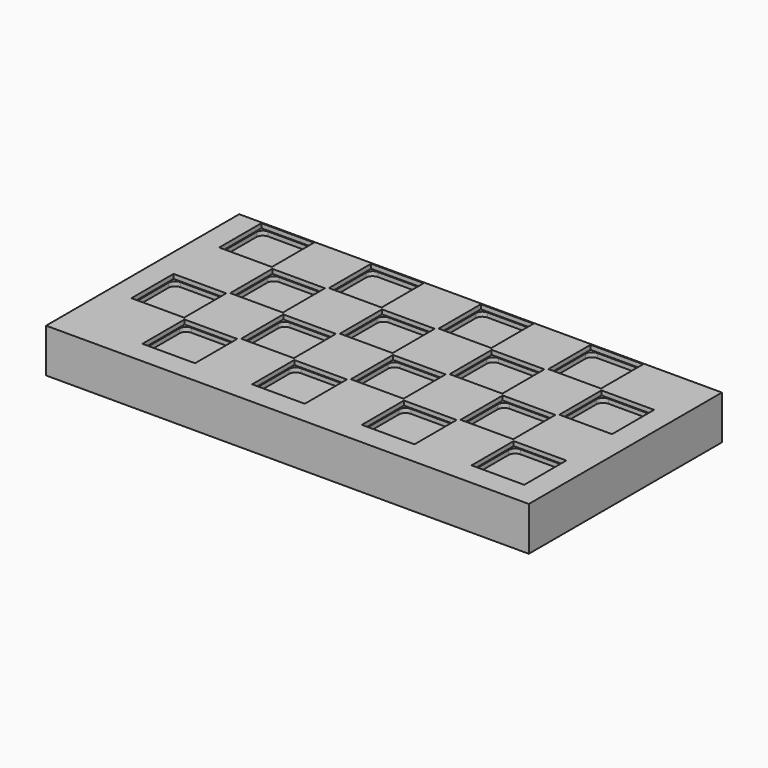
from build123d import *

# Parameters (mm, degrees)
F0_W     = 279.4
F0_H     = 25.4
F1_DEPTH = 139.7
F3_DEPTH = 5.08
F5_DEPTH = 19.05
F6_W     = 30.48
F6_H     = 30.48
F7_DEPTH = 2.54


with BuildPart() as f1:
    # F0 (on Front) → F1 (new body)
    with BuildSketch(Plane.XZ):
        Rectangle(F0_W, F0_H)
    extrude(amount=F1_DEPTH)

    # F2 (on face) → F3 (cut)
    with BuildSketch(Plane.XY.offset(12.7)):
        with BuildLine():
            Line((-100.33, -1.27), (-121.92, -1.27))
            ThreePointArc((-121.92, -1.27), (-124.614077, -2.385923), (-125.73, -5.08))
            Line((-125.73, -5.08), (-125.73, -26.67))
            ThreePointArc((-125.73, -26.67), (-124.614077, -29.364077), (-121.92, -30.48))
            Line((-121.92, -30.48), (-100.33, -30.48))
            ThreePointArc((-100.33, -30.48), (-97.635923, -29.364077), (-96.52, -26.67))
            Line((-96.52, -26.67), (-96.52, -5.08))
            ThreePointArc((-96.52, -5.08), (-97.635923, -2.385923), (-100.33, -1.27))
        make_face()
        with BuildLine():
            ThreePointArc((-121.92, -64.77), (-124.614077, -65.885923), (-125.73, -68.58))
            Line((-125.73, -68.58), (-125.73, -90.17))
            ThreePointArc((-125.73, -90.17), (-124.614077, -92.864077), (-121.92, -93.98))
            Line((-121.92, -93.98), (-100.33, -93.98))
            ThreePointArc((-100.33, -93.98), (-97.635923, -92.864077), (-96.52, -90.17))
            Line((-96.52, -90.17), (-96.52, -68.58))
            ThreePointArc((-96.52, -68.58), (-97.635923, -65.885923), (-100.33, -64.77))
            Line((-100.33, -64.77), (-121.92, -64.77))
        make_face()
        with BuildLine():
            ThreePointArc((-58.42, -1.27), (-61.114077, -2.385923), (-62.23, -5.08))
            Line((-62.23, -5.08), (-62.23, -26.67))
            ThreePointArc((-62.23, -26.67), (-61.114077, -29.364077), (-58.42, -30.48))
            Line((-58.42, -30.48), (-36.83, -30.48))
            ThreePointArc((-36.83, -30.48), (-34.135923, -29.364077), (-33.02, -26.67))
            Line((-33.02, -26.67), (-33.02, -5.08))
            ThreePointArc((-33.02, -5.08), (-34.135923, -2.385923), (-36.83, -1.27))
            Line((-36.83, -1.27), (-58.42, -1.27))
        make_face()
        with BuildLine():
            ThreePointArc((-90.17, -33.02), (-92.864077, -34.135923), (-93.98, -36.83))
            Line((-93.98, -36.83), (-93.98, -58.42))
            ThreePointArc((-93.98, -58.42), (-92.864077, -61.114077), (-90.17, -62.23))
            Line((-90.17, -62.23), (-68.58, -62.23))
            ThreePointArc((-68.58, -62.23), (-65.885923, -61.114077), (-64.77, -58.42))
            Line((-64.77, -58.42), (-64.77, -36.83))
            ThreePointArc((-64.77, -36.83), (-65.885923, -34.135923), (-68.58, -33.02))
            Line((-68.58, -33.02), (-90.17, -33.02))
        make_face()
        with BuildLine():
            ThreePointArc((-58.42, -64.77), (-61.114077, -65.885923), (-62.23, -68.58))
            Line((-62.23, -68.58), (-62.23, -90.17))
            ThreePointArc((-62.23, -90.17), (-61.114077, -92.864077), (-58.42, -93.98))
            Line((-58.42, -93.98), (-36.83, -93.98))
            ThreePointArc((-36.83, -93.98), (-34.135923, -92.864077), (-33.02, -90.17))
            Line((-33.02, -90.17), (-33.02, -68.58))
            ThreePointArc((-33.02, -68.58), (-34.135923, -65.885923), (-36.83, -64.77))
            Line((-36.83, -64.77), (-58.42, -64.77))
        make_face()
        with BuildLine():
            ThreePointArc((-90.17, -96.52), (-92.864077, -97.635923), (-93.98, -100.33))
            Line((-93.98, -100.33), (-93.98, -121.92))
            ThreePointArc((-93.98, -121.92), (-92.864077, -124.614077), (-90.17, -125.73))
            Line((-90.17, -125.73), (-68.58, -125.73))
            ThreePointArc((-68.58, -125.73), (-65.885923, -124.614077), (-64.77, -121.92))
            Line((-64.77, -121.92), (-64.77, -100.33))
            ThreePointArc((-64.77, -100.33), (-65.885923, -97.635923), (-68.58, -96.52))
            Line((-68.58, -96.52), (-90.17, -96.52))
        make_face()
        with BuildLine():
            ThreePointArc((-26.67, -96.52), (-29.364077, -97.635923), (-30.48, -100.33))
            Line((-30.48, -100.33), (-30.48, -121.92))
            ThreePointArc((-30.48, -121.92), (-29.364077, -124.614077), (-26.67, -125.73))
            Line((-26.67, -125.73), (-5.08, -125.73))
            ThreePointArc((-5.08, -125.73), (-2.385923, -124.614077), (-1.27, -121.92))
            Line((-1.27, -121.92), (-1.27, -100.33))
            ThreePointArc((-1.27, -100.33), (-2.385923, -97.635923), (-5.08, -96.52))
            Line((-5.08, -96.52), (-26.67, -96.52))
        make_face()
        with BuildLine():
            ThreePointArc((5.08, -64.77), (2.385923, -65.885923), (1.27, -68.58))
            Line((1.27, -68.58), (1.27, -90.17))
            ThreePointArc((1.27, -90.17), (2.385923, -92.864077), (5.08, -93.98))
            Line((5.08, -93.98), (26.67, -93.98))
            ThreePointArc((26.67, -93.98), (29.364077, -92.864077), (30.48, -90.17))
            Line((30.48, -90.17), (30.48, -68.58))
            ThreePointArc((30.48, -68.58), (29.364077, -65.885923), (26.67, -64.77))
            Line((26.67, -64.77), (5.08, -64.77))
        make_face()
        with BuildLine():
            ThreePointArc((-26.67, -33.02), (-29.364077, -34.135923), (-30.48, -36.83))
            Line((-30.48, -36.83), (-30.48, -58.42))
            ThreePointArc((-30.48, -58.42), (-29.364077, -61.114077), (-26.67, -62.23))
            Line((-26.67, -62.23), (-5.08, -62.23))
            ThreePointArc((-5.08, -62.23), (-2.385923, -61.114077), (-1.27, -58.42))
            Line((-1.27, -58.42), (-1.27, -36.83))
            ThreePointArc((-1.27, -36.83), (-2.385923, -34.135923), (-5.08, -33.02))
            Line((-5.08, -33.02), (-26.67, -33.02))
        make_face()
        with BuildLine():
            ThreePointArc((5.08, -1.27), (2.385923, -2.385923), (1.27, -5.08))
            Line((1.27, -5.08), (1.27, -26.67))
            ThreePointArc((1.27, -26.67), (2.385923, -29.364077), (5.08, -30.48))
            Line((5.08, -30.48), (26.67, -30.48))
            ThreePointArc((26.67, -30.48), (29.364077, -29.364077), (30.48, -26.67))
            Line((30.48, -26.67), (30.48, -5.08))
            ThreePointArc((30.48, -5.08), (29.364077, -2.385923), (26.67, -1.27))
            Line((26.67, -1.27), (5.08, -1.27))
        make_face()
        with BuildLine():
            ThreePointArc((36.83, -33.02), (34.135923, -34.135923), (33.02, -36.83))
            Line((33.02, -36.83), (33.02, -58.42))
            ThreePointArc((33.02, -58.42), (34.135923, -61.114077), (36.83, -62.23))
            Line((36.83, -62.23), (58.42, -62.23))
            ThreePointArc((58.42, -62.23), (61.114077, -61.114077), (62.23, -58.42))
            Line((62.23, -58.42), (62.23, -36.83))
            ThreePointArc((62.23, -36.83), (61.114077, -34.135923), (58.42, -33.02))
            Line((58.42, -33.02), (36.83, -33.02))
        make_face()
        with BuildLine():
            ThreePointArc((68.58, -64.77), (65.885923, -65.885923), (64.77, -68.58))
            Line((64.77, -68.58), (64.77, -90.17))
            ThreePointArc((64.77, -90.17), (65.885923, -92.864077), (68.58, -93.98))
            Line((68.58, -93.98), (90.17, -93.98))
            ThreePointArc((90.17, -93.98), (92.864077, -92.864077), (93.98, -90.17))
            Line((93.98, -90.17), (93.98, -68.58))
            ThreePointArc((93.98, -68.58), (92.864077, -65.885923), (90.17, -64.77))
            Line((90.17, -64.77), (68.58, -64.77))
        make_face()
        with BuildLine():
            ThreePointArc((36.83, -96.52), (34.135923, -97.635923), (33.02, -100.33))
            Line((33.02, -100.33), (33.02, -121.92))
            ThreePointArc((33.02, -121.92), (34.135923, -124.614077), (36.83, -125.73))
            Line((36.83, -125.73), (58.42, -125.73))
            ThreePointArc((58.42, -125.73), (61.114077, -124.614077), (62.23, -121.92))
            Line((62.23, -121.92), (62.23, -100.33))
            ThreePointArc((62.23, -100.33), (61.114077, -97.635923), (58.42, -96.52))
            Line((58.42, -96.52), (36.83, -96.52))
        make_face()
        with BuildLine():
            ThreePointArc((100.33, -96.52), (97.635923, -97.635923), (96.52, -100.33))
            Line((96.52, -100.33), (96.52, -121.92))
            ThreePointArc((96.52, -121.92), (97.635923, -124.614077), (100.33, -125.73))
            Line((100.33, -125.73), (121.92, -125.73))
            ThreePointArc((121.92, -125.73), (124.614077, -124.614077), (125.73, -121.92))
            Line((125.73, -121.92), (125.73, -100.33))
            ThreePointArc((125.73, -100.33), (124.614077, -97.635923), (121.92, -96.52))
            Line((121.92, -96.52), (100.33, -96.52))
        make_face()
        with BuildLine():
            ThreePointArc((100.33, -33.02), (97.635923, -34.135923), (96.52, -36.83))
            Line((96.52, -36.83), (96.52, -58.42))
            ThreePointArc((96.52, -58.42), (97.635923, -61.114077), (100.33, -62.23))
            Line((100.33, -62.23), (121.92, -62.23))
            ThreePointArc((121.92, -62.23), (124.614077, -61.114077), (125.73, -58.42))
            Line((125.73, -58.42), (125.73, -36.83))
            ThreePointArc((125.73, -36.83), (124.614077, -34.135923), (121.92, -33.02))
            Line((121.92, -33.02), (100.33, -33.02))
        make_face()
        with BuildLine():
            ThreePointArc((68.58, -1.27), (65.885923, -2.385923), (64.77, -5.08))
            Line((64.77, -5.08), (64.77, -26.67))
            ThreePointArc((64.77, -26.67), (65.885923, -29.364077), (68.58, -30.48))
            Line((68.58, -30.48), (90.17, -30.48))
            ThreePointArc((90.17, -30.48), (92.864077, -29.364077), (93.98, -26.67))
            Line((93.98, -26.67), (93.98, -5.08))
            ThreePointArc((93.98, -5.08), (92.864077, -2.385923), (90.17, -1.27))
            Line((90.17, -1.27), (68.58, -1.27))
        make_face()
    extrude(amount=-F3_DEPTH, mode=Mode.SUBTRACT)

    # F4 (on face) → F5 (cut)
    with BuildSketch(Plane(origin=(0, 0, -12.7), x_dir=(1, 0, 0), z_dir=(0, 0, -1))):
        Polygon((127, 127), (-127, 127), (-127, 12.7), (-127, 0), (127, 0), (127, 12.7), align=None)
    extrude(amount=-F5_DEPTH, mode=Mode.SUBTRACT)

    # F6 (on face) → F7 (cut)
    with BuildSketch(Plane.XY.offset(12.7)):
        with Locations((111.125, -111.125)):
            Rectangle(F6_W, F6_H)
        with BuildLine():
            Line((100.33, -96.52), (121.92, -96.52))
            ThreePointArc((121.92, -96.52), (124.614077, -97.635923), (125.73, -100.33))
            Line((125.73, -100.33), (125.73, -121.92))
            ThreePointArc((125.73, -121.92), (124.614077, -124.614077), (121.92, -125.73))
            Line((121.92, -125.73), (100.33, -125.73))
            ThreePointArc((100.33, -125.73), (97.635923, -124.614077), (96.52, -121.92))
            Line((96.52, -121.92), (96.52, -100.33))
            ThreePointArc((96.52, -100.33), (97.635923, -97.635923), (100.33, -96.52))
        make_face(mode=Mode.SUBTRACT)
        with Locations((47.625, -111.125)):
            Rectangle(F6_W, F6_H)
        with BuildLine():
            ThreePointArc((58.42, -96.52), (61.114077, -97.635923), (62.23, -100.33))
            Line((62.23, -100.33), (62.23, -121.92))
            ThreePointArc((62.23, -121.92), (61.114077, -124.614077), (58.42, -125.73))
            Line((58.42, -125.73), (36.83, -125.73))
            ThreePointArc((36.83, -125.73), (34.135923, -124.614077), (33.02, -121.92))
            Line((33.02, -121.92), (33.02, -100.33))
            ThreePointArc((33.02, -100.33), (34.135923, -97.635923), (36.83, -96.52))
            Line((36.83, -96.52), (58.42, -96.52))
        make_face(mode=Mode.SUBTRACT)
        with Locations((111.125, -47.625)):
            Rectangle(F6_W, F6_H)
        with BuildLine():
            ThreePointArc((96.52, -36.83), (97.635923, -34.135923), (100.33, -33.02))
            Line((100.33, -33.02), (121.92, -33.02))
            ThreePointArc((121.92, -33.02), (124.614077, -34.135923), (125.73, -36.83))
            Line((125.73, -36.83), (125.73, -58.42))
            ThreePointArc((125.73, -58.42), (124.614077, -61.114077), (121.92, -62.23))
            Line((121.92, -62.23), (100.33, -62.23))
            ThreePointArc((100.33, -62.23), (97.635923, -61.114077), (96.52, -58.42))
            Line((96.52, -58.42), (96.52, -36.83))
        make_face(mode=Mode.SUBTRACT)
        with Locations((79.375, -79.375)):
            Rectangle(F6_W, F6_H)
        with BuildLine():
            ThreePointArc((64.77, -68.58), (65.885923, -65.885923), (68.58, -64.77))
            Line((68.58, -64.77), (90.17, -64.77))
            ThreePointArc((90.17, -64.77), (92.864077, -65.885923), (93.98, -68.58))
            Line((93.98, -68.58), (93.98, -90.17))
            ThreePointArc((93.98, -90.17), (92.864077, -92.864077), (90.17, -93.98))
            Line((90.17, -93.98), (68.58, -93.98))
            ThreePointArc((68.58, -93.98), (65.885923, -92.864077), (64.77, -90.17))
            Line((64.77, -90.17), (64.77, -68.58))
        make_face(mode=Mode.SUBTRACT)
        with Locations((79.375, -15.875)):
            Rectangle(F6_W, F6_H)
        with BuildLine():
            ThreePointArc((64.77, -5.08), (65.885923, -2.385923), (68.58, -1.27))
            Line((68.58, -1.27), (90.17, -1.27))
            ThreePointArc((90.17, -1.27), (92.864077, -2.385923), (93.98, -5.08))
            Line((93.98, -5.08), (93.98, -26.67))
            ThreePointArc((93.98, -26.67), (92.864077, -29.364077), (90.17, -30.48))
            Line((90.17, -30.48), (68.58, -30.48))
            ThreePointArc((68.58, -30.48), (65.885923, -29.364077), (64.77, -26.67))
            Line((64.77, -26.67), (64.77, -5.08))
        make_face(mode=Mode.SUBTRACT)
        with Locations((47.625, -47.625)):
            Rectangle(F6_W, F6_H)
        with BuildLine():
            ThreePointArc((33.02, -36.83), (34.135923, -34.135923), (36.83, -33.02))
            Line((36.83, -33.02), (58.42, -33.02))
            ThreePointArc((58.42, -33.02), (61.114077, -34.135923), (62.23, -36.83))
            Line((62.23, -36.83), (62.23, -58.42))
            ThreePointArc((62.23, -58.42), (61.114077, -61.114077), (58.42, -62.23))
            Line((58.42, -62.23), (36.83, -62.23))
            ThreePointArc((36.83, -62.23), (34.135923, -61.114077), (33.02, -58.42))
            Line((33.02, -58.42), (33.02, -36.83))
        make_face(mode=Mode.SUBTRACT)
        with Locations((15.875, -15.875)):
            Rectangle(F6_W, F6_H)
        with BuildLine():
            Line((5.08, -1.27), (26.67, -1.27))
            ThreePointArc((26.67, -1.27), (29.364077, -2.385923), (30.48, -5.08))
            Line((30.48, -5.08), (30.48, -26.67))
            ThreePointArc((30.48, -26.67), (29.364077, -29.364077), (26.67, -30.48))
            Line((26.67, -30.48), (5.08, -30.48))
            ThreePointArc((5.08, -30.48), (2.385923, -29.364077), (1.27, -26.67))
            Line((1.27, -26.67), (1.27, -5.08))
            ThreePointArc((1.27, -5.08), (2.385923, -2.385923), (5.08, -1.27))
        make_face(mode=Mode.SUBTRACT)
        with Locations((15.875, -79.375)):
            Rectangle(F6_W, F6_H)
        with BuildLine():
            ThreePointArc((26.67, -64.77), (29.364077, -65.885923), (30.48, -68.58))
            Line((30.48, -68.58), (30.48, -90.17))
            ThreePointArc((30.48, -90.17), (29.364077, -92.864077), (26.67, -93.98))
            Line((26.67, -93.98), (5.08, -93.98))
            ThreePointArc((5.08, -93.98), (2.385923, -92.864077), (1.27, -90.17))
            Line((1.27, -90.17), (1.27, -68.58))
            ThreePointArc((1.27, -68.58), (2.385923, -65.885923), (5.08, -64.77))
            Line((5.08, -64.77), (26.67, -64.77))
        make_face(mode=Mode.SUBTRACT)
        with Locations((-15.875, -111.125)):
            Rectangle(F6_W, F6_H)
        with BuildLine():
            Line((-26.67, -96.52), (-5.08, -96.52))
            ThreePointArc((-5.08, -96.52), (-2.385923, -97.635923), (-1.27, -100.33))
            Line((-1.27, -100.33), (-1.27, -121.92))
            ThreePointArc((-1.27, -121.92), (-2.385923, -124.614077), (-5.08, -125.73))
            Line((-5.08, -125.73), (-26.67, -125.73))
            ThreePointArc((-26.67, -125.73), (-29.364077, -124.614077), (-30.48, -121.92))
            Line((-30.48, -121.92), (-30.48, -100.33))
            ThreePointArc((-30.48, -100.33), (-29.364077, -97.635923), (-26.67, -96.52))
        make_face(mode=Mode.SUBTRACT)
        with Locations((-15.875, -47.625)):
            Rectangle(F6_W, F6_H)
        with BuildLine():
            Line((-26.67, -33.02), (-5.08, -33.02))
            ThreePointArc((-5.08, -33.02), (-2.385923, -34.135923), (-1.27, -36.83))
            Line((-1.27, -36.83), (-1.27, -58.42))
            ThreePointArc((-1.27, -58.42), (-2.385923, -61.114077), (-5.08, -62.23))
            Line((-5.08, -62.23), (-26.67, -62.23))
            ThreePointArc((-26.67, -62.23), (-29.364077, -61.114077), (-30.48, -58.42))
            Line((-30.48, -58.42), (-30.48, -36.83))
            ThreePointArc((-30.48, -36.83), (-29.364077, -34.135923), (-26.67, -33.02))
        make_face(mode=Mode.SUBTRACT)
        with Locations((-47.625, -15.875)):
            Rectangle(F6_W, F6_H)
        with BuildLine():
            ThreePointArc((-62.23, -5.08), (-61.114077, -2.385923), (-58.42, -1.27))
            Line((-58.42, -1.27), (-36.83, -1.27))
            ThreePointArc((-36.83, -1.27), (-34.135923, -2.385923), (-33.02, -5.08))
            Line((-33.02, -5.08), (-33.02, -26.67))
            ThreePointArc((-33.02, -26.67), (-34.135923, -29.364077), (-36.83, -30.48))
            Line((-36.83, -30.48), (-58.42, -30.48))
            ThreePointArc((-58.42, -30.48), (-61.114077, -29.364077), (-62.23, -26.67))
            Line((-62.23, -26.67), (-62.23, -5.08))
        make_face(mode=Mode.SUBTRACT)
        with Locations((-47.625, -79.375)):
            Rectangle(F6_W, F6_H)
        with BuildLine():
            ThreePointArc((-36.83, -64.77), (-34.135923, -65.885923), (-33.02, -68.58))
            Line((-33.02, -68.58), (-33.02, -90.17))
            ThreePointArc((-33.02, -90.17), (-34.135923, -92.864077), (-36.83, -93.98))
            Line((-36.83, -93.98), (-58.42, -93.98))
            ThreePointArc((-58.42, -93.98), (-61.114077, -92.864077), (-62.23, -90.17))
            Line((-62.23, -90.17), (-62.23, -68.58))
            ThreePointArc((-62.23, -68.58), (-61.114077, -65.885923), (-58.42, -64.77))
            Line((-58.42, -64.77), (-36.83, -64.77))
        make_face(mode=Mode.SUBTRACT)
        with Locations((-79.375, -111.125)):
            Rectangle(F6_W, F6_H)
        with BuildLine():
            ThreePointArc((-93.98, -100.33), (-92.864077, -97.635923), (-90.17, -96.52))
            Line((-90.17, -96.52), (-68.58, -96.52))
            ThreePointArc((-68.58, -96.52), (-65.885923, -97.635923), (-64.77, -100.33))
            Line((-64.77, -100.33), (-64.77, -121.92))
            ThreePointArc((-64.77, -121.92), (-65.885923, -124.614077), (-68.58, -125.73))
            Line((-68.58, -125.73), (-90.17, -125.73))
            ThreePointArc((-90.17, -125.73), (-92.864077, -124.614077), (-93.98, -121.92))
            Line((-93.98, -121.92), (-93.98, -100.33))
        make_face(mode=Mode.SUBTRACT)
        with Locations((-79.375, -47.625)):
            Rectangle(F6_W, F6_H)
        with BuildLine():
            Line((-90.17, -33.02), (-68.58, -33.02))
            ThreePointArc((-68.58, -33.02), (-65.885923, -34.135923), (-64.77, -36.83))
            Line((-64.77, -36.83), (-64.77, -58.42))
            ThreePointArc((-64.77, -58.42), (-65.885923, -61.114077), (-68.58, -62.23))
            Line((-68.58, -62.23), (-90.17, -62.23))
            ThreePointArc((-90.17, -62.23), (-92.864077, -61.114077), (-93.98, -58.42))
            Line((-93.98, -58.42), (-93.98, -36.83))
            ThreePointArc((-93.98, -36.83), (-92.864077, -34.135923), (-90.17, -33.02))
        make_face(mode=Mode.SUBTRACT)
        with Locations((-111.125, -79.375)):
            Rectangle(F6_W, F6_H)
        with BuildLine():
            ThreePointArc((-100.33, -64.77), (-97.635923, -65.885923), (-96.52, -68.58))
            Line((-96.52, -68.58), (-96.52, -90.17))
            ThreePointArc((-96.52, -90.17), (-97.635923, -92.864077), (-100.33, -93.98))
            Line((-100.33, -93.98), (-121.92, -93.98))
            ThreePointArc((-121.92, -93.98), (-124.614077, -92.864077), (-125.73, -90.17))
            Line((-125.73, -90.17), (-125.73, -68.58))
            ThreePointArc((-125.73, -68.58), (-124.614077, -65.885923), (-121.92, -64.77))
            Line((-121.92, -64.77), (-100.33, -64.77))
        make_face(mode=Mode.SUBTRACT)
        with Locations((-111.125, -15.875)):
            Rectangle(F6_W, F6_H)
        with BuildLine():
            Line((-121.92, -1.27), (-100.33, -1.27))
            ThreePointArc((-100.33, -1.27), (-97.635923, -2.385923), (-96.52, -5.08))
            Line((-96.52, -5.08), (-96.52, -26.67))
            ThreePointArc((-96.52, -26.67), (-97.635923, -29.364077), (-100.33, -30.48))
            Line((-100.33, -30.48), (-121.92, -30.48))
            ThreePointArc((-121.92, -30.48), (-124.614077, -29.364077), (-125.73, -26.67))
            Line((-125.73, -26.67), (-125.73, -5.08))
            ThreePointArc((-125.73, -5.08), (-124.614077, -2.385923), (-121.92, -1.27))
        make_face(mode=Mode.SUBTRACT)
    extrude(amount=-F7_DEPTH, mode=Mode.SUBTRACT)


solid = f1.part
